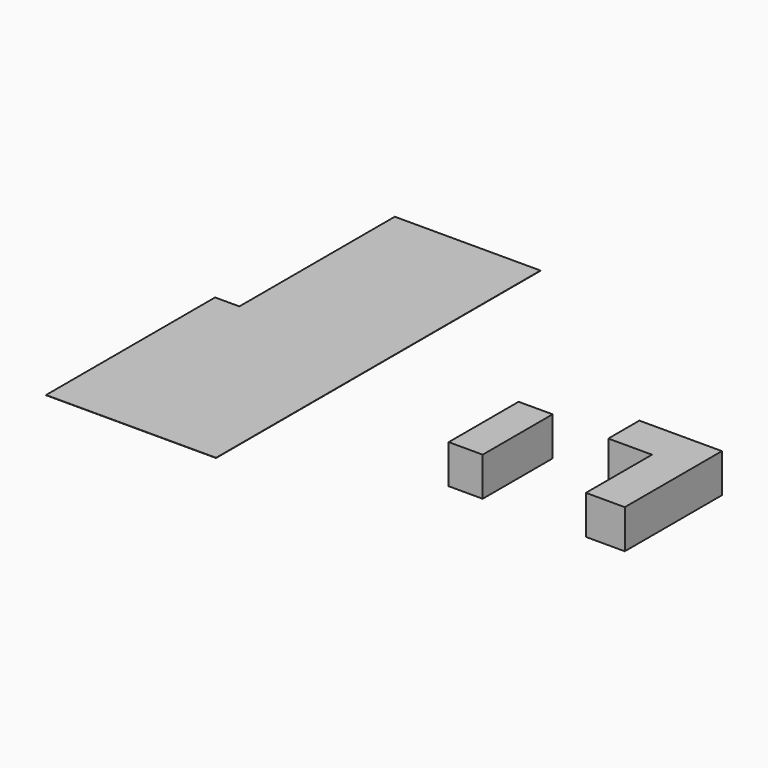
from build123d import *

# Parameters (mm, degrees)
F1_DEPTH = 5
F2_W     = 700
F2_H     = 1800
F3_DEPTH = 800


with BuildPart() as f1:
    # F0 (on Top) → F1 (new body)
    with BuildSketch(Plane.XY):
        Polygon((0, 4350), (0, 0), (3500, 0), (3500, 8350), (500, 8350), (500, 4350), align=None)
    extrude(amount=F1_DEPTH)


with BuildPart() as f3:
    # F2 (on Top) → F3 (new body)
    with BuildSketch(Plane.XY):
        with Locations((7383.852386, 2469.875479)):
            Rectangle(F2_W, F2_H)
        Polygon((9860.004044, 1569.875479), (10660.004044, 1569.875479), (10660.004044, 4069.875479), (8960.004044, 4069.875479), (8960.004044, 3269.875479), (9860.004044, 3269.875479), align=None)
    extrude(amount=F3_DEPTH)


solid = Compound([f1.part, f3.part])
